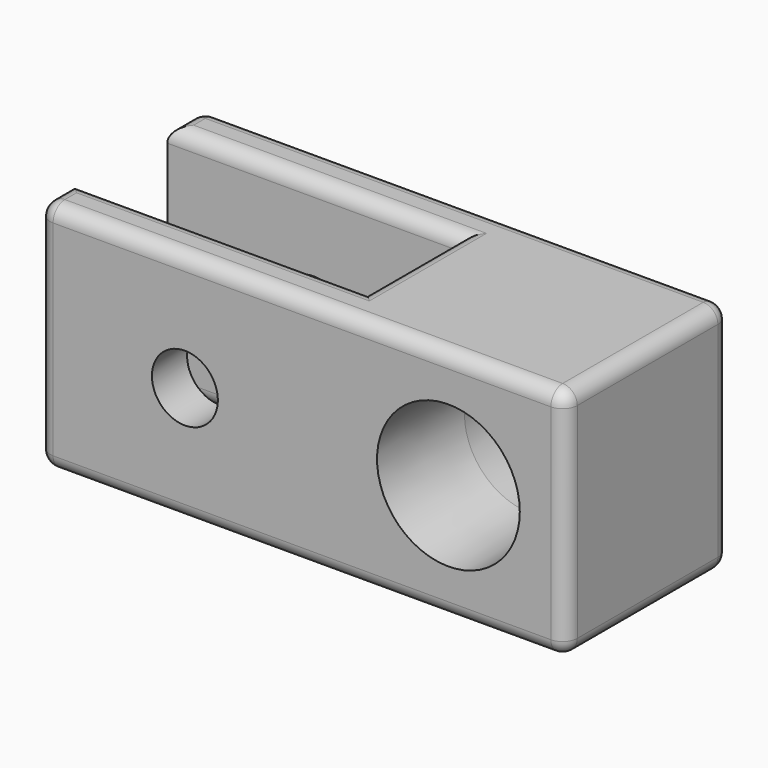
from build123d import *

# Parameters (mm, degrees)
F0_W     = 36
F0_H     = 14
F1_DEPTH = 16
F2_W     = 20
F2_H     = 8
F2_W_2   = 30.9440002977
F3_DEPTH = 29.3
F4_R     = 4.875
F5_DEPTH = 11
F5_TAPER = 3
F6_R     = 4.875
F7_DEPTH = 11
F7_TAPER = 3
F8_R     = 1
F4_R_2   = 2.25
F9_DEPTH = 16


with BuildPart() as f1:
    # F0 (on Top) → F1 (new body)
    with BuildSketch(Plane.XY):
        with Locations((8.2136405466, -2.7754378021)):
            Rectangle(F0_W, F0_H)
    extrude(amount=F1_DEPTH)

    # F2 (on face) → F3 (cut, symmetric)
    with BuildSketch(Plane.XY.offset(16)):
        with Locations((0.2136405466, -2.7754378021)):
            Rectangle(F2_W, F2_H)
        with Locations((-25.2583596023, -2.7754378021)):
            Rectangle(F2_W_2, F2_H)
    extrude(amount=F3_DEPTH, both=True, mode=Mode.SUBTRACT)

    # F4 (on face) → F5 (cut)
    with BuildSketch(Plane(origin=(0, 4.2245621979, 0), x_dir=(-1, 0, 0), z_dir=(0, 1, 0))):
        with Locations((-18.2136405466, 8)):
            Circle(F4_R)
    extrude(amount=-F5_DEPTH, taper=F5_TAPER, mode=Mode.SUBTRACT)

    # F6 (on face) → F7 (cut)
    with BuildSketch(Plane.XZ.offset(9.7754378021)):
        with Locations((18.2136405466, 8)):
            Circle(F6_R)
    extrude(amount=-F7_DEPTH, taper=F7_TAPER, mode=Mode.SUBTRACT)

    # F8
    f8_edges = [f1.edges().sort_by_distance(p)[0] for p in [
        (26.213641, -9.775438, 8),
        (26.213641, 4.224562, 8),
        (26.213641, -2.775438, 0),
        (26.213641, -2.775438, 16),
        (8.213641, -9.775438, 16),
        (-9.786359, -8.275438, 16),
        (0.213641, -6.775438, 16),
        (10.213641, -2.775438, 16),
        (0.213641, 1.224562, 16),
        (-9.786359, 2.724562, 16),
        (8.213641, 4.224562, 16),
        (8.213641, -9.775438, 0),
        (-9.786359, -8.275438, 0),
        (0.213641, -6.775438, 0),
        (10.213641, -2.775438, 0),
        (0.213641, 1.224562, 0),
        (-9.786359, 2.724562, 0),
        (8.213641, 4.224562, 0),
        (-9.786359, 4.224562, 8),
        (-9.786359, -9.775438, 8),
    ]]
    fillet(f8_edges, radius=F8_R)

    # F4 (on face) → F9 (cut, symmetric)
    with BuildSketch(Plane(origin=(0, 4.2245621979, 0), x_dir=(-1, 0, 0), z_dir=(0, 1, 0))):
        with Locations((-0.2136405466, 8)):
            Circle(F4_R_2)
    extrude(amount=F9_DEPTH, both=True, mode=Mode.SUBTRACT)


solid = f1.part
